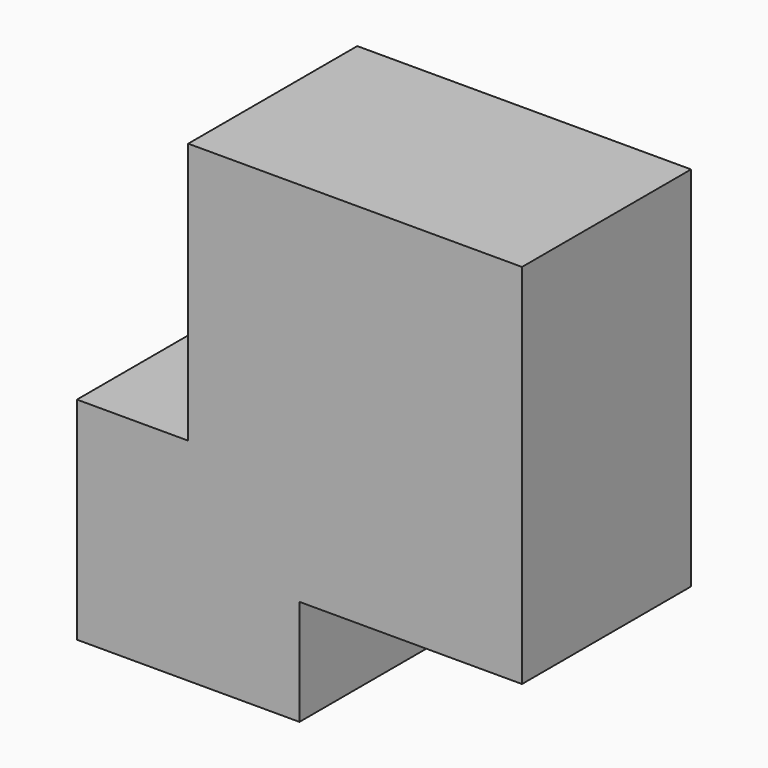
from build123d import *

# Parameters (mm, degrees)
F0_W     = 26.7493240535
F0_H     = 25.4118572921
F1_DEPTH = 50.8


with BuildPart() as f1:
    # F0 (on Front) → F1 (new body)
    with BuildSketch(Plane.XZ):
        with Locations((-26.7493259162, -31.4304539934)):
            Rectangle(F0_W, F0_H)
        Polygon((-13.3746638894, -44.1363826394), (-40.1239879429, -44.1363826394), (-40.1239879429, -18.7245253474), (-66.8733119965, -18.7245253474), (-66.8733119965, -69.5482399315), (-13.3746638894, -69.5482399315), align=None)
        Polygon((-13.3746638894, -18.7245253474), (-13.3746638894, -44.1363826394), (40.1239879429, -44.1363826394), (40.1239879429, 44.1363826394), (-40.1239879429, 44.1363826394), (-40.1239879429, -18.7245253474), align=None)
    extrude(amount=F1_DEPTH)


solid = f1.part
